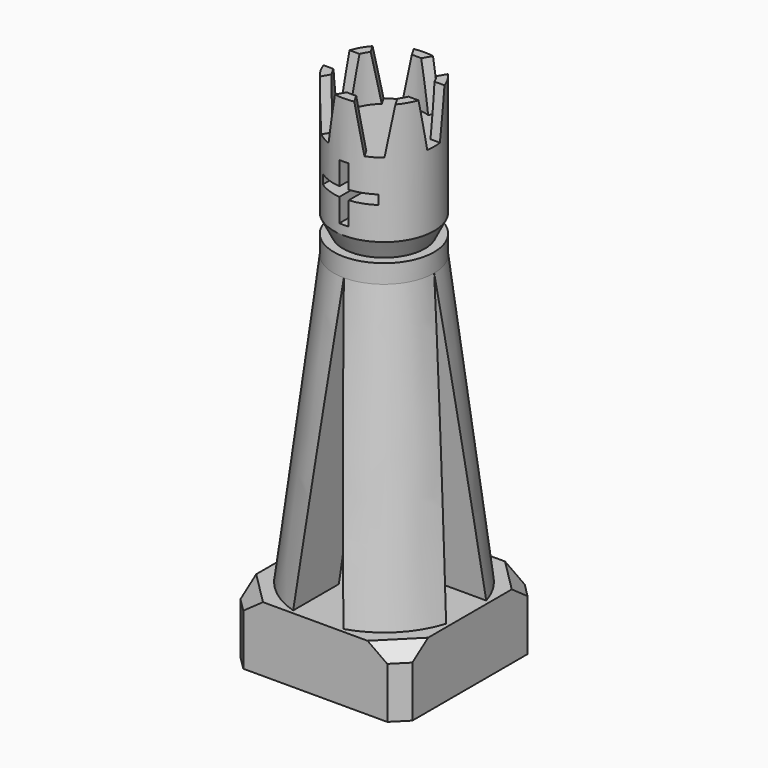
from build123d import *

# Parameters (mm, degrees)
SKETCH_W              = 18.5
SKETCH_H              = 18.5
SKETCH_R              = 8.15
PAD_DEPTH             = 4
SKETCH001_W           = 18.5
SKETCH001_H           = 18.5
PAD001_DEPTH          = 3
SKETCH002_R           = 9.25
SKETCH003_R           = 5.4
SKETCH005_R           = 5.4
PAD002_DEPTH          = 2
CHAMFER_SIZE          = 1.5
CHAMFER001_SIZE       = 1.5
POCKET_DEPTH          = 114.093887
POLARPATTERN_COUNT    = 4
SKETCH007_R           = 4.4
SKETCH008_R           = 5.4
SKETCH009_R           = 5.4
PAD003_DEPTH          = 13
SKETCH010_R           = 4.4
POCKET001_DEPTH       = 5
POCKET002_DEPTH       = 140.31233
POLARPATTERN001_COUNT = 3
POCKET003_DEPTH       = 18.501


with BuildPart() as part:
    # Sketch → Pad (new body)
    with BuildSketch(Plane.XY):
        Rectangle(SKETCH_W, SKETCH_H)
        Circle(SKETCH_R, mode=Mode.SUBTRACT)
    extrude(amount=PAD_DEPTH)

    # Sketch001 (on Face7 of Pad) → Pad001 (join)
    with BuildSketch(Plane.XY.offset(4)):
        Rectangle(SKETCH001_W, SKETCH001_H)
    extrude(amount=PAD001_DEPTH)

    # Sketch002 (on Face10 of Pad001) → AdditiveLoft section 0
    with BuildSketch(Plane.XY.offset(7)):
        Circle(SKETCH002_R)
    # Sketch003 (on Face10 of Pad001) → AdditiveLoft section 1
    with BuildSketch(Plane.XY.offset(38)):
        Circle(SKETCH003_R)
    loft()

    # Sketch005 (on Face17 of AdditiveLoft) → Pad002 (join)
    with BuildSketch(Plane.XY.offset(38)):
        Circle(SKETCH005_R)
    extrude(amount=PAD002_DEPTH)

    # Chamfer
    chamfer_edges = [part.edges().sort_by_distance(p)[0] for p in [
        (-9.25, -9.25, 5.5),
        (-9.25, -9.25, 2),
        (9.25, -9.25, 5.5),
        (9.25, -9.25, 2),
        (9.25, 9.25, 2),
        (9.25, 9.25, 5.5),
        (-9.25, 9.25, 5.5),
        (-9.25, 9.25, 2),
    ]]
    chamfer(chamfer_edges, length=CHAMFER_SIZE)

    # Chamfer001
    chamfer001_edges = [part.edges().sort_by_distance(p)[0] for p in [
        (8.5, -8.5, 7),
        (-8.5, -8.5, 7),
        (-8.5, 8.5, 7),
        (8.5, 8.5, 7),
    ]]
    chamfer(chamfer001_edges, length=CHAMFER001_SIZE)

    # Sketch006 (on Face19 of Chamfer001) → Pocket (cut, through all)
    with BuildSketch(Plane.YZ.offset(9.25)):
        Polygon((0, 38), (-2.7, 7), (2.7, 7), align=None)
    pocket = extrude(amount=-POCKET_DEPTH, mode=Mode.SUBTRACT)

    # PolarPattern: Pocket ×4 about axis
    polarpattern_axis = Axis((0, 0, 0), (0, 0, 1))
    for i in range(1, POLARPATTERN_COUNT):
        add(pocket.rotate(polarpattern_axis, i * 360 / POLARPATTERN_COUNT), mode=Mode.SUBTRACT)

    # Sketch007 (on Face47 of PolarPattern) → AdditiveLoft001 section 0
    with BuildSketch(Plane.XY.offset(40)):
        Circle(SKETCH007_R)
    # Sketch008 → AdditiveLoft001 section 1
    with BuildSketch(Plane.XY.offset(42)):
        Circle(SKETCH008_R)
    loft()

    # Sketch009 (on Face56 of AdditiveLoft001) → Pad003 (join)
    with BuildSketch(Plane.XY.offset(42)):
        Circle(SKETCH009_R)
    extrude(amount=PAD003_DEPTH)

    # Sketch010 (on Face57 of Pad003) → Pocket001 (cut)
    with BuildSketch(Plane.XY.offset(55)):
        Circle(SKETCH010_R)
    extrude(amount=-POCKET001_DEPTH, mode=Mode.SUBTRACT)

    # Sketch011 (on Face26 of Pocket001) → Pocket002 (cut, through all)
    with BuildSketch(Plane.YZ.offset(9.25)):
        Polygon((-1.75, 55), (1.75, 55), (0.85, 50), (-0.85, 50), align=None)
    pocket002 = extrude(amount=-POCKET002_DEPTH, mode=Mode.SUBTRACT)

    # PolarPattern001: Pocket002 ×3 about axis
    polarpattern001_axis = Axis((0, 0, 0), (0, 0, 1))
    for i in range(1, POLARPATTERN001_COUNT):
        add(pocket002.rotate(polarpattern001_axis, i * 360 / POLARPATTERN001_COUNT), mode=Mode.SUBTRACT)

    # Sketch012 (on Face1 of PolarPattern001) → Pocket003 (cut, through all)
    with BuildSketch(Plane(origin=(0, 9.25, 0), x_dir=(-1, 0, 0), z_dir=(0, 1, 0))):
        Polygon((-3, 46.5), (-0.5, 46.5), (-0.5, 49), (0.5, 49), (0.5, 46.5), (3, 46.5), (3, 45.5), (0.5, 45.5), (0.5, 43), (-0.5, 43), (-0.5, 45.5), (-3, 45.5), align=None)
    extrude(amount=-POCKET003_DEPTH, mode=Mode.SUBTRACT)


solid = part.part
